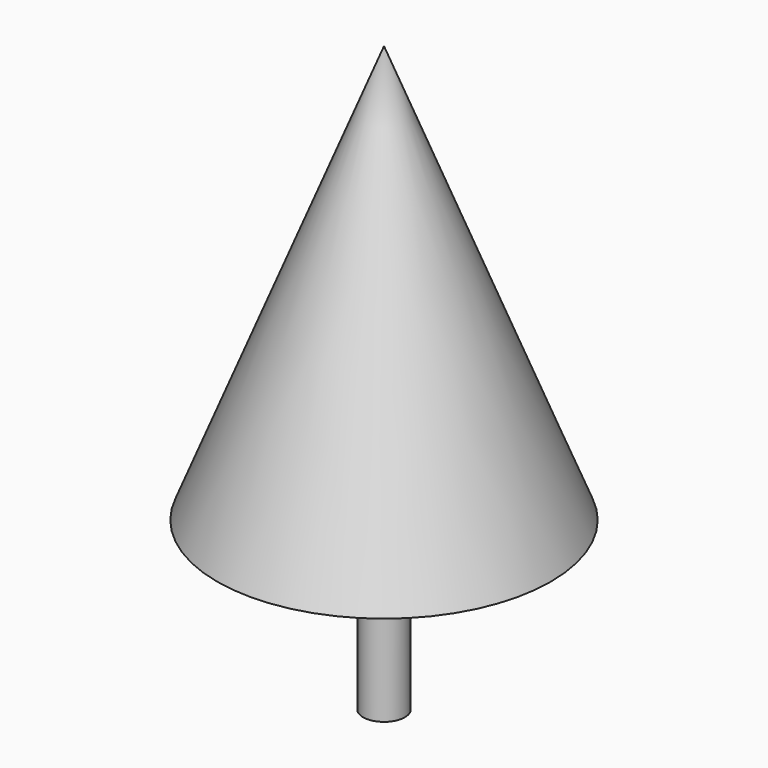
from build123d import *

# Parameters (mm, degrees)
F0_W = 76.2
F0_H = 609.6


with BuildPart() as f1:
    # F0 (on Front) → F1 (revolve)
    with BuildSketch(Plane.XZ):
        Polygon((0, 1524), (0, 0), (76.2, 0), (609.6, 0), align=None)
        with Locations((38.1, -304.8)):
            Rectangle(F0_W, F0_H)
    revolve(axis=Axis((0, 0, -304.8), (0, 0, -1)))


solid = f1.part
